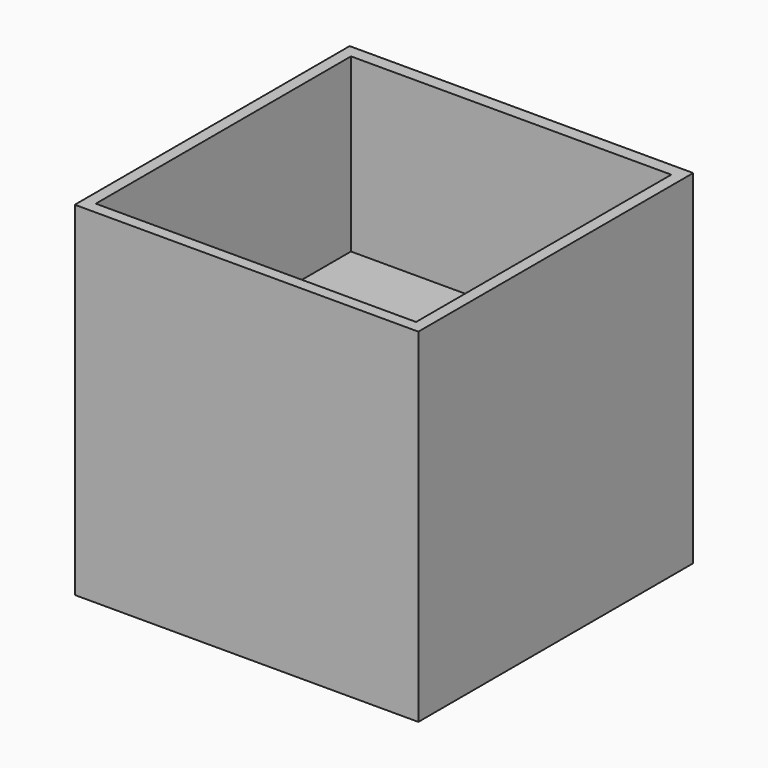
from build123d import *

# Parameters (mm, degrees)
F0_W     = 50.8
F0_H     = 50.8
F1_DEPTH = 50.8
F2_W     = 47.356754
F2_H     = 47.165799
F3_DEPTH = 25.4


with BuildPart() as f1:
    # F0 (on Front) → F1 (new body)
    with BuildSketch(Plane.XZ):
        with Locations((-25.4, 25.4)):
            Rectangle(F0_W, F0_H)
        with Locations((-25.4, 25.4)):
            Rectangle(F0_W, F0_H)
    extrude(amount=F1_DEPTH)

    # F2 (on face) → F3 (cut)
    with BuildSketch(Plane.XY.offset(50.8)):
        with Locations((-25.396969, -25.492446)):
            Rectangle(F2_W, F2_H)
    extrude(amount=-F3_DEPTH, mode=Mode.SUBTRACT)


solid = f1.part
